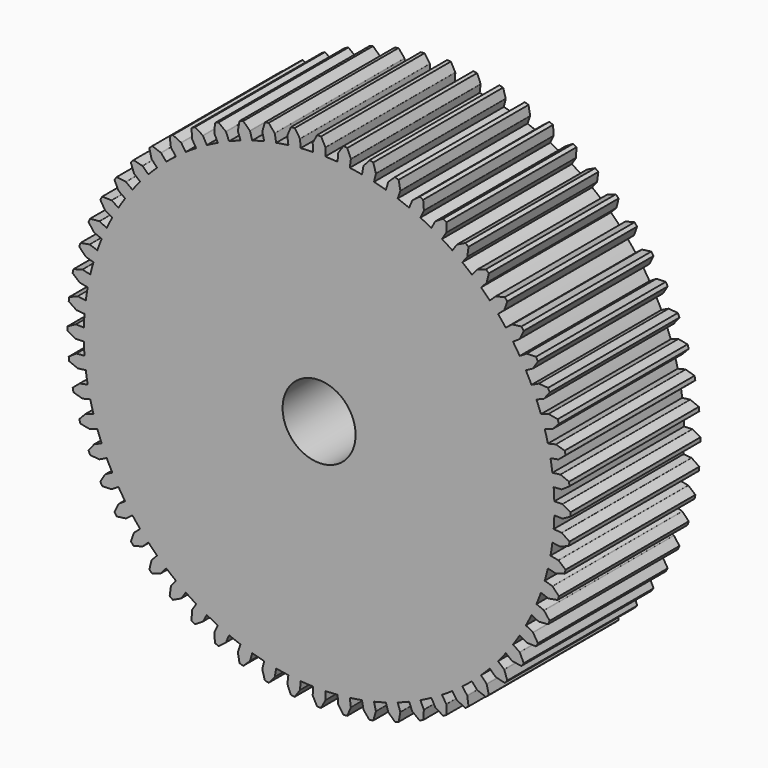
from build123d import *

# Parameters (mm, degrees)
F1_DEPTH = 10
F2_R     = 2.25
F3_DEPTH = 10.001


with BuildPart() as f1:
    # F0 (on Front) → F1 (new body)
    with BuildSketch(Plane.XZ):
        with BuildLine():
            ThreePointArc((14.495031, -0.379566), (14.498758, -0.189799), (14.5, 0))
            ThreePointArc((14.5, 0), (14.498758, 0.189799), (14.495031, 0.379566))
            ThreePointArc((14.495031, 0.379566), (14.480128, 0.758871), (14.455301, 1.137657))
            ThreePointArc((14.455301, 1.137657), (14.420567, 1.515663), (14.37595, 1.89263))
            ThreePointArc((14.37595, 1.89263), (14.321481, 2.2683), (14.257196, 2.642415))
            ThreePointArc((14.257196, 2.642415), (14.18314, 3.01472), (14.099364, 3.384958))
            ThreePointArc((14.099364, 3.384958), (14.005924, 3.752876), (13.902886, 4.118222))
            ThreePointArc((13.902886, 4.118222), (13.790319, 4.480746), (13.668302, 4.840199))
            ThreePointArc((13.668302, 4.840199), (13.536916, 5.196335), (13.396253, 5.54891))
            ThreePointArc((13.396253, 5.54891), (13.246409, 5.897681), (13.087487, 6.242411))
            ThreePointArc((13.087487, 6.242411), (12.919595, 6.582862), (12.742848, 6.918802))
            ThreePointArc((12.742848, 6.918802), (12.557368, 7.25), (12.363282, 7.576229))
            ThreePointArc((12.363282, 7.576229), (12.160723, 7.897266), (11.94983, 8.21289))
            ThreePointArc((11.94983, 8.21289), (11.730746, 8.522886), (11.503623, 8.827041))
            ThreePointArc((11.503623, 8.827041), (11.268616, 9.125146), (11.025887, 9.416997))
            ThreePointArc((11.025887, 9.416997), (10.7756, 9.702394), (10.517928, 9.981141))
            ThreePointArc((10.517928, 9.981141), (10.253048, 10.253048), (9.981141, 10.517928))
            ThreePointArc((9.981141, 10.517928), (9.702394, 10.7756), (9.416997, 11.025887))
            ThreePointArc((9.416997, 11.025887), (9.125146, 11.268616), (8.827041, 11.503623))
            ThreePointArc((8.827041, 11.503623), (8.522886, 11.730746), (8.21289, 11.94983))
            ThreePointArc((8.21289, 11.94983), (7.897266, 12.160723), (7.576229, 12.363282))
            ThreePointArc((7.576229, 12.363282), (7.25, 12.557368), (6.918802, 12.742848))
            ThreePointArc((6.918802, 12.742848), (6.582862, 12.919595), (6.242411, 13.087487))
            ThreePointArc((6.242411, 13.087487), (5.897681, 13.246409), (5.54891, 13.396253))
            ThreePointArc((5.54891, 13.396253), (5.196335, 13.536916), (4.840199, 13.668302))
            ThreePointArc((4.840199, 13.668302), (4.480746, 13.790319), (4.118222, 13.902886))
            ThreePointArc((4.118222, 13.902886), (3.752876, 14.005924), (3.384958, 14.099364))
            ThreePointArc((3.384958, 14.099364), (3.01472, 14.18314), (2.642415, 14.257196))
            ThreePointArc((2.642415, 14.257196), (2.2683, 14.321481), (1.89263, 14.37595))
            ThreePointArc((1.89263, 14.37595), (1.515663, 14.420567), (1.137657, 14.455301))
            ThreePointArc((1.137657, 14.455301), (0.758871, 14.480128), (0.379566, 14.495031))
            ThreePointArc((0.379566, 14.495031), (0, 14.5), (-0.379566, 14.495031))
            ThreePointArc((-0.379566, 14.495031), (-0.758871, 14.480128), (-1.137657, 14.455301))
            ThreePointArc((-1.137657, 14.455301), (-1.515663, 14.420567), (-1.89263, 14.37595))
            ThreePointArc((-1.89263, 14.37595), (-2.2683, 14.321481), (-2.642415, 14.257196))
            ThreePointArc((-2.642415, 14.257196), (-3.01472, 14.18314), (-3.384958, 14.099364))
            ThreePointArc((-3.384958, 14.099364), (-3.752876, 14.005924), (-4.118222, 13.902886))
            ThreePointArc((-4.118222, 13.902886), (-4.480746, 13.790319), (-4.840199, 13.668302))
            ThreePointArc((-4.840199, 13.668302), (-5.196335, 13.536916), (-5.54891, 13.396253))
            ThreePointArc((-5.54891, 13.396253), (-5.897681, 13.246409), (-6.242411, 13.087487))
            ThreePointArc((-6.242411, 13.087487), (-6.582862, 12.919595), (-6.918802, 12.742848))
            ThreePointArc((-6.918802, 12.742848), (-7.25, 12.557368), (-7.576229, 12.363282))
            ThreePointArc((-7.576229, 12.363282), (-7.897266, 12.160723), (-8.21289, 11.94983))
            ThreePointArc((-8.21289, 11.94983), (-8.522886, 11.730746), (-8.827041, 11.503623))
            ThreePointArc((-8.827041, 11.503623), (-9.125146, 11.268616), (-9.416997, 11.025887))
            ThreePointArc((-9.416997, 11.025887), (-9.702394, 10.7756), (-9.981141, 10.517928))
            ThreePointArc((-9.981141, 10.517928), (-10.253048, 10.253048), (-10.517928, 9.981141))
            ThreePointArc((-10.517928, 9.981141), (-10.7756, 9.702394), (-11.025887, 9.416997))
            ThreePointArc((-11.025887, 9.416997), (-11.268616, 9.125146), (-11.503623, 8.827041))
            ThreePointArc((-11.503623, 8.827041), (-11.730746, 8.522886), (-11.94983, 8.21289))
            ThreePointArc((-11.94983, 8.21289), (-12.160723, 7.897266), (-12.363282, 7.576229))
            ThreePointArc((-12.363282, 7.576229), (-12.557368, 7.25), (-12.742848, 6.918802))
            ThreePointArc((-12.742848, 6.918802), (-12.919595, 6.582862), (-13.087487, 6.242411))
            ThreePointArc((-13.087487, 6.242411), (-13.246409, 5.897681), (-13.396253, 5.54891))
            ThreePointArc((-13.396253, 5.54891), (-13.536916, 5.196335), (-13.668302, 4.840199))
            ThreePointArc((-13.668302, 4.840199), (-13.790319, 4.480746), (-13.902886, 4.118222))
            ThreePointArc((-13.902886, 4.118222), (-14.005924, 3.752876), (-14.099364, 3.384958))
            ThreePointArc((-14.099364, 3.384958), (-14.18314, 3.01472), (-14.257196, 2.642415))
            ThreePointArc((-14.257196, 2.642415), (-14.321481, 2.2683), (-14.37595, 1.89263))
            ThreePointArc((-14.37595, 1.89263), (-14.420567, 1.515663), (-14.455301, 1.137657))
            ThreePointArc((-14.455301, 1.137657), (-14.480128, 0.758871), (-14.495031, 0.379566))
            ThreePointArc((-14.495031, 0.379566), (-14.5, 0), (-14.495031, -0.379566))
            ThreePointArc((-14.495031, -0.379566), (-14.480128, -0.758871), (-14.455301, -1.137657))
            ThreePointArc((-14.455301, -1.137657), (-14.420567, -1.515663), (-14.37595, -1.89263))
            ThreePointArc((-14.37595, -1.89263), (-14.321481, -2.2683), (-14.257196, -2.642415))
            ThreePointArc((-14.257196, -2.642415), (-14.18314, -3.01472), (-14.099364, -3.384958))
            ThreePointArc((-14.099364, -3.384958), (-14.005924, -3.752876), (-13.902886, -4.118222))
            ThreePointArc((-13.902886, -4.118222), (-13.790319, -4.480746), (-13.668302, -4.840199))
            ThreePointArc((-13.668302, -4.840199), (-13.536916, -5.196335), (-13.396253, -5.54891))
            ThreePointArc((-13.396253, -5.54891), (-13.246409, -5.897681), (-13.087487, -6.242411))
            ThreePointArc((-13.087487, -6.242411), (-12.919595, -6.582862), (-12.742848, -6.918802))
            ThreePointArc((-12.742848, -6.918802), (-12.557368, -7.25), (-12.363282, -7.576229))
            ThreePointArc((-12.363282, -7.576229), (-12.160723, -7.897266), (-11.94983, -8.21289))
            ThreePointArc((-11.94983, -8.21289), (-11.730746, -8.522886), (-11.503623, -8.827041))
            ThreePointArc((-11.503623, -8.827041), (-11.268616, -9.125146), (-11.025887, -9.416997))
            ThreePointArc((-11.025887, -9.416997), (-10.7756, -9.702394), (-10.517928, -9.981141))
            ThreePointArc((-10.517928, -9.981141), (-10.253048, -10.253048), (-9.981141, -10.517928))
            ThreePointArc((-9.981141, -10.517928), (-9.702394, -10.7756), (-9.416997, -11.025887))
            ThreePointArc((-9.416997, -11.025887), (-9.125146, -11.268616), (-8.827041, -11.503623))
            ThreePointArc((-8.827041, -11.503623), (-8.522886, -11.730746), (-8.21289, -11.94983))
            ThreePointArc((-8.21289, -11.94983), (-7.897266, -12.160723), (-7.576229, -12.363282))
            ThreePointArc((-7.576229, -12.363282), (-7.25, -12.557368), (-6.918802, -12.742848))
            ThreePointArc((-6.918802, -12.742848), (-6.582862, -12.919595), (-6.242411, -13.087487))
            ThreePointArc((-6.242411, -13.087487), (-5.897681, -13.246409), (-5.54891, -13.396253))
            ThreePointArc((-5.54891, -13.396253), (-5.196335, -13.536916), (-4.840199, -13.668302))
            ThreePointArc((-4.840199, -13.668302), (-4.480746, -13.790319), (-4.118222, -13.902886))
            ThreePointArc((-4.118222, -13.902886), (-3.752876, -14.005924), (-3.384958, -14.099364))
            ThreePointArc((-3.384958, -14.099364), (-3.01472, -14.18314), (-2.642415, -14.257196))
            ThreePointArc((-2.642415, -14.257196), (-2.2683, -14.321481), (-1.89263, -14.37595))
            ThreePointArc((-1.89263, -14.37595), (-1.515663, -14.420567), (-1.137657, -14.455301))
            ThreePointArc((-1.137657, -14.455301), (-0.758871, -14.480128), (-0.379566, -14.495031))
            ThreePointArc((-0.379566, -14.495031), (0, -14.5), (0.379566, -14.495031))
            ThreePointArc((0.379566, -14.495031), (0.758871, -14.480128), (1.137657, -14.455301))
            ThreePointArc((1.137657, -14.455301), (1.515663, -14.420567), (1.89263, -14.37595))
            ThreePointArc((1.89263, -14.37595), (2.2683, -14.321481), (2.642415, -14.257196))
            ThreePointArc((2.642415, -14.257196), (3.01472, -14.18314), (3.384958, -14.099364))
            ThreePointArc((3.384958, -14.099364), (3.752876, -14.005924), (4.118222, -13.902886))
            ThreePointArc((4.118222, -13.902886), (4.480746, -13.790319), (4.840199, -13.668302))
            ThreePointArc((4.840199, -13.668302), (5.196335, -13.536916), (5.54891, -13.396253))
            ThreePointArc((5.54891, -13.396253), (5.897681, -13.246409), (6.242411, -13.087487))
            ThreePointArc((6.242411, -13.087487), (6.582862, -12.919595), (6.918802, -12.742848))
            ThreePointArc((6.918802, -12.742848), (7.25, -12.557368), (7.576229, -12.363282))
            ThreePointArc((7.576229, -12.363282), (7.897266, -12.160723), (8.21289, -11.94983))
            ThreePointArc((8.21289, -11.94983), (8.522886, -11.730746), (8.827041, -11.503623))
            ThreePointArc((8.827041, -11.503623), (9.125146, -11.268616), (9.416997, -11.025887))
            ThreePointArc((9.416997, -11.025887), (9.702394, -10.7756), (9.981141, -10.517928))
            ThreePointArc((9.981141, -10.517928), (10.253048, -10.253048), (10.517928, -9.981141))
            ThreePointArc((10.517928, -9.981141), (10.7756, -9.702394), (11.025887, -9.416997))
            ThreePointArc((11.025887, -9.416997), (11.268616, -9.125146), (11.503623, -8.827041))
            ThreePointArc((11.503623, -8.827041), (11.730746, -8.522886), (11.94983, -8.21289))
            ThreePointArc((11.94983, -8.21289), (12.160723, -7.897266), (12.363282, -7.576229))
            ThreePointArc((12.363282, -7.576229), (12.557368, -7.25), (12.742848, -6.918802))
            ThreePointArc((12.742848, -6.918802), (12.919595, -6.582862), (13.087487, -6.242411))
            ThreePointArc((13.087487, -6.242411), (13.246409, -5.897681), (13.396253, -5.54891))
            ThreePointArc((13.396253, -5.54891), (13.536916, -5.196335), (13.668302, -4.840199))
            ThreePointArc((13.668302, -4.840199), (13.790319, -4.480746), (13.902886, -4.118222))
            ThreePointArc((13.902886, -4.118222), (14.005924, -3.752876), (14.099364, -3.384958))
            ThreePointArc((14.099364, -3.384958), (14.18314, -3.01472), (14.257196, -2.642415))
            ThreePointArc((14.257196, -2.642415), (14.321481, -2.2683), (14.37595, -1.89263))
            ThreePointArc((14.37595, -1.89263), (14.420567, -1.515663), (14.455301, -1.137657))
            ThreePointArc((14.455301, -1.137657), (14.480128, -0.758871), (14.495031, -0.379566))
        make_face()
        with BuildLine():
            ThreePointArc((14.495031, 0.379566), (14.498758, 0.189799), (14.5, 0))
            ThreePointArc((14.5, 0), (14.498758, -0.189799), (14.495031, -0.379566))
            Line((14.495031, -0.379566), (14.981523, -0.392305))
            ThreePointArc((14.981523, -0.392305), (14.994453, -0.390953), (15.006598, -0.386313))
            Line((15.006598, -0.386313), (15.499535, -0.12))
            ThreePointArc((15.499535, -0.12), (15.5, 0), (15.499535, 0.12))
            Line((15.499535, 0.12), (15.006598, 0.386313))
            ThreePointArc((15.006598, 0.386313), (14.994453, 0.390953), (14.981523, 0.392305))
            Line((14.981523, 0.392305), (14.495031, 0.379566))
        make_face()
        with BuildLine():
            ThreePointArc((14.37595, 1.89263), (14.420567, 1.515663), (14.455301, 1.137657))
            Line((14.455301, 1.137657), (14.94046, 1.17584))
            ThreePointArc((14.94046, 1.17584), (14.953178, 1.178536), (14.964771, 1.18442))
            Line((14.964771, 1.18442), (15.427171, 1.5008))
            ThreePointArc((15.427171, 1.5008), (15.415089, 1.620191), (15.402084, 1.739485))
            Line((15.402084, 1.739485), (14.88401, 1.952813))
            ThreePointArc((14.88401, 1.952813), (14.871446, 1.956158), (14.858446, 1.956151))
            Line((14.858446, 1.956151), (14.37595, 1.89263))
        make_face()
        with BuildLine():
            Line((14.94046, -1.17584), (14.455301, -1.137657))
            ThreePointArc((14.455301, -1.137657), (14.420567, -1.515663), (14.37595, -1.89263))
            Line((14.37595, -1.89263), (14.858446, -1.956151))
            ThreePointArc((14.858446, -1.956151), (14.871446, -1.956158), (14.88401, -1.952813))
            Line((14.88401, -1.952813), (15.402084, -1.739485))
            ThreePointArc((15.402084, -1.739485), (15.415089, -1.620191), (15.427171, -1.5008))
            Line((15.427171, -1.5008), (14.964771, -1.18442))
            ThreePointArc((14.964771, -1.18442), (14.953178, -1.178536), (14.94046, -1.17584))
        make_face()
        with BuildLine():
            ThreePointArc((14.099364, 3.384958), (14.18314, 3.01472), (14.257196, 2.642415))
            Line((14.257196, 2.642415), (14.735705, 2.731102))
            ThreePointArc((14.735705, 2.731102), (14.748072, 2.735113), (14.758987, 2.742176))
            Line((14.758987, 2.742176), (15.185783, 3.105157))
            ThreePointArc((15.185783, 3.105157), (15.161288, 3.222631), (15.135884, 3.339912))
            Line((15.135884, 3.339912), (14.598349, 3.497918))
            ThreePointArc((14.598349, 3.497918), (14.585505, 3.499932), (14.572576, 3.498566))
            Line((14.572576, 3.498566), (14.099364, 3.384958))
        make_face()
        with BuildLine():
            Line((14.735705, -2.731102), (14.257196, -2.642415))
            ThreePointArc((14.257196, -2.642415), (14.18314, -3.01472), (14.099364, -3.384958))
            Line((14.099364, -3.384958), (14.572576, -3.498566))
            ThreePointArc((14.572576, -3.498566), (14.585505, -3.499932), (14.598349, -3.497918))
            Line((14.598349, -3.497918), (15.135884, -3.339912))
            ThreePointArc((15.135884, -3.339912), (15.161288, -3.222631), (15.185783, -3.105157))
            Line((15.185783, -3.105157), (14.758987, -2.742176))
            ThreePointArc((14.758987, -2.742176), (14.748072, -2.735113), (14.735705, -2.731102))
        make_face()
        with BuildLine():
            ThreePointArc((13.668302, 4.840199), (13.790319, 4.480746), (13.902886, 4.118222))
            Line((13.902886, 4.118222), (14.369504, 4.256441))
            ThreePointArc((14.369504, 4.256441), (14.381384, 4.261723), (14.3915, 4.269889))
            Line((14.3915, 4.269889), (14.778016, 4.675493))
            ThreePointArc((14.778016, 4.675493), (14.741376, 4.789763), (14.703852, 4.903747))
            Line((14.703852, 4.903747), (14.152746, 5.004699))
            ThreePointArc((14.152746, 5.004699), (14.139761, 5.005359), (14.127046, 5.002649))
            Line((14.127046, 5.002649), (13.668302, 4.840199))
        make_face()
        with BuildLine():
            Line((14.369504, -4.256441), (13.902886, -4.118222))
            ThreePointArc((13.902886, -4.118222), (13.790319, -4.480746), (13.668302, -4.840199))
            Line((13.668302, -4.840199), (14.127046, -5.002649))
            ThreePointArc((14.127046, -5.002649), (14.139761, -5.005359), (14.152746, -5.004699))
            Line((14.152746, -5.004699), (14.703852, -4.903747))
            ThreePointArc((14.703852, -4.903747), (14.741376, -4.789763), (14.778016, -4.675493))
            Line((14.778016, -4.675493), (14.3915, -4.269889))
            ThreePointArc((14.3915, -4.269889), (14.381384, -4.261723), (14.369504, -4.256441))
        make_face()
        with BuildLine():
            ThreePointArc((13.087487, 6.242411), (13.246409, 5.897681), (13.396253, 5.54891))
            Line((13.396253, 5.54891), (13.845867, 5.735146))
            ThreePointArc((13.845867, 5.735146), (13.857129, 5.74164), (13.866337, 5.750819))
            Line((13.866337, 5.750819), (14.208339, 6.194604))
            ThreePointArc((14.208339, 6.194604), (14.159955, 6.304418), (14.110722, 6.413854))
            Line((14.110722, 6.413854), (13.552082, 6.456647))
            ThreePointArc((13.552082, 6.456647), (13.5391, 6.455947), (13.526737, 6.451923))
            Line((13.526737, 6.451923), (13.087487, 6.242411))
        make_face()
        with BuildLine():
            Line((13.845867, -5.735146), (13.396253, -5.54891))
            ThreePointArc((13.396253, -5.54891), (13.246409, -5.897681), (13.087487, -6.242411))
            Line((13.087487, -6.242411), (13.526737, -6.451923))
            ThreePointArc((13.526737, -6.451923), (13.5391, -6.455947), (13.552082, -6.456647))
            Line((13.552082, -6.456647), (14.110722, -6.413854))
            ThreePointArc((14.110722, -6.413854), (14.159955, -6.304418), (14.208339, -6.194604))
            Line((14.208339, -6.194604), (13.866337, -5.750819))
            ThreePointArc((13.866337, -5.750819), (13.857129, -5.74164), (13.845867, -5.735146))
        make_face()
        with BuildLine():
            ThreePointArc((12.363282, 7.576229), (12.557368, 7.25), (12.742848, 6.918802))
            Line((12.742848, 6.918802), (13.170532, 7.151015))
            ThreePointArc((13.170532, 7.151015), (13.181054, 7.158652), (13.189251, 7.168742))
            Line((13.189251, 7.168742), (13.482991, 7.645845))
            ThreePointArc((13.482991, 7.645845), (13.423394, 7.75), (13.362991, 7.853691))
            Line((13.362991, 7.853691), (12.802939, 7.837856))
            ThreePointArc((12.802939, 7.837856), (12.790101, 7.835802), (12.778227, 7.830508))
            Line((12.778227, 7.830508), (12.363282, 7.576229))
        make_face()
        with BuildLine():
            Line((13.170532, -7.151015), (12.742848, -6.918802))
            ThreePointArc((12.742848, -6.918802), (12.557368, -7.25), (12.363282, -7.576229))
            Line((12.363282, -7.576229), (12.778227, -7.830508))
            ThreePointArc((12.778227, -7.830508), (12.790101, -7.835802), (12.802939, -7.837856))
            Line((12.802939, -7.837856), (13.362991, -7.853691))
            ThreePointArc((13.362991, -7.853691), (13.423394, -7.75), (13.482991, -7.645845))
            Line((13.482991, -7.645845), (13.189251, -7.168742))
            ThreePointArc((13.189251, -7.168742), (13.181054, -7.158652), (13.170532, -7.151015))
        make_face()
        with BuildLine():
            ThreePointArc((11.503623, 8.827041), (11.730746, 8.522886), (11.94983, 8.21289))
            Line((11.94983, 8.21289), (12.350898, 8.488537))
            ThreePointArc((12.350898, 8.488537), (12.360564, 8.497231), (12.367662, 8.508123))
            Line((12.367662, 8.508123), (12.609922, 9.013316))
            ThreePointArc((12.609922, 9.013316), (12.539763, 9.110671), (12.468853, 9.20748))
            Line((12.468853, 9.20748), (11.913524, 9.13319))
            ThreePointArc((11.913524, 9.13319), (11.900971, 9.129806), (11.889716, 9.1233))
            Line((11.889716, 9.1233), (11.503623, 8.827041))
        make_face()
        with BuildLine():
            Line((12.350898, -8.488537), (11.94983, -8.21289))
            ThreePointArc((11.94983, -8.21289), (11.730746, -8.522886), (11.503623, -8.827041))
            Line((11.503623, -8.827041), (11.889716, -9.1233))
            ThreePointArc((11.889716, -9.1233), (11.900971, -9.129806), (11.913524, -9.13319))
            Line((11.913524, -9.13319), (12.468853, -9.20748))
            ThreePointArc((12.468853, -9.20748), (12.539763, -9.110671), (12.609922, -9.013316))
            Line((12.609922, -9.013316), (12.367662, -8.508123))
            ThreePointArc((12.367662, -8.508123), (12.360564, -8.497231), (12.350898, -8.488537))
        make_face()
        with BuildLine():
            ThreePointArc((10.517928, 9.981141), (10.7756, 9.702394), (11.025887, 9.416997))
            Line((11.025887, 9.416997), (11.395944, 9.733056))
            ThreePointArc((11.395944, 9.733056), (11.404649, 9.742713), (11.410569, 9.754288))
            Line((11.410569, 9.754288), (11.598695, 10.282036))
            ThreePointArc((11.598695, 10.282036), (11.518745, 10.371524), (11.438104, 10.460391))
            Line((11.438104, 10.460391), (10.893582, 10.32846))
            ThreePointArc((10.893582, 10.32846), (10.881452, 10.323782), (10.870938, 10.316135))
            Line((10.870938, 10.316135), (10.517928, 9.981141))
        make_face()
        with BuildLine():
            Line((11.395944, -9.733056), (11.025887, -9.416997))
            ThreePointArc((11.025887, -9.416997), (10.7756, -9.702394), (10.517928, -9.981141))
            Line((10.517928, -9.981141), (10.870938, -10.316135))
            ThreePointArc((10.870938, -10.316135), (10.881452, -10.323782), (10.893582, -10.32846))
            Line((10.893582, -10.32846), (11.438104, -10.460391))
            ThreePointArc((11.438104, -10.460391), (11.518745, -10.371524), (11.598695, -10.282036))
            Line((11.598695, -10.282036), (11.410569, -9.754288))
            ThreePointArc((11.410569, -9.754288), (11.404649, -9.742713), (11.395944, -9.733056))
        make_face()
        with BuildLine():
            ThreePointArc((9.416997, 11.025887), (9.702394, 10.7756), (9.981141, 10.517928))
            Line((9.981141, 10.517928), (10.316135, 10.870938))
            ThreePointArc((10.316135, 10.870938), (10.323782, 10.881452), (10.32846, 10.893582))
            Line((10.32846, 10.893582), (10.460391, 11.438104))
            ThreePointArc((10.460391, 11.438104), (10.371524, 11.518745), (10.282036, 11.598695))
            Line((10.282036, 11.598695), (9.754288, 11.410569))
            ThreePointArc((9.754288, 11.410569), (9.742713, 11.404649), (9.733056, 11.395944))
            Line((9.733056, 11.395944), (9.416997, 11.025887))
        make_face()
        with BuildLine():
            Line((10.316135, -10.870938), (9.981141, -10.517928))
            ThreePointArc((9.981141, -10.517928), (9.702394, -10.7756), (9.416997, -11.025887))
            Line((9.416997, -11.025887), (9.733056, -11.395944))
            ThreePointArc((9.733056, -11.395944), (9.742713, -11.404649), (9.754288, -11.410569))
            Line((9.754288, -11.410569), (10.282036, -11.598695))
            ThreePointArc((10.282036, -11.598695), (10.371524, -11.518745), (10.460391, -11.438104))
            Line((10.460391, -11.438104), (10.32846, -10.893582))
            ThreePointArc((10.32846, -10.893582), (10.323782, -10.881452), (10.316135, -10.870938))
        make_face()
        with BuildLine():
            ThreePointArc((8.21289, 11.94983), (8.522886, 11.730746), (8.827041, 11.503623))
            Line((8.827041, 11.503623), (9.1233, 11.889716))
            ThreePointArc((9.1233, 11.889716), (9.129806, 11.900971), (9.13319, 11.913524))
            Line((9.13319, 11.913524), (9.20748, 12.468853))
            ThreePointArc((9.20748, 12.468853), (9.110671, 12.539763), (9.013316, 12.609922))
            Line((9.013316, 12.609922), (8.508123, 12.367662))
            ThreePointArc((8.508123, 12.367662), (8.497231, 12.360564), (8.488537, 12.350898))
            Line((8.488537, 12.350898), (8.21289, 11.94983))
        make_face()
        with BuildLine():
            Line((9.1233, -11.889716), (8.827041, -11.503623))
            ThreePointArc((8.827041, -11.503623), (8.522886, -11.730746), (8.21289, -11.94983))
            Line((8.21289, -11.94983), (8.488537, -12.350898))
            ThreePointArc((8.488537, -12.350898), (8.497231, -12.360564), (8.508123, -12.367662))
            Line((8.508123, -12.367662), (9.013316, -12.609922))
            ThreePointArc((9.013316, -12.609922), (9.110671, -12.539763), (9.20748, -12.468853))
            Line((9.20748, -12.468853), (9.13319, -11.913524))
            ThreePointArc((9.13319, -11.913524), (9.129806, -11.900971), (9.1233, -11.889716))
        make_face()
        with BuildLine():
            ThreePointArc((6.918802, 12.742848), (7.25, 12.557368), (7.576229, 12.363282))
            Line((7.576229, 12.363282), (7.830508, 12.778227))
            ThreePointArc((7.830508, 12.778227), (7.835802, 12.790101), (7.837856, 12.802939))
            Line((7.837856, 12.802939), (7.853691, 13.362991))
            ThreePointArc((7.853691, 13.362991), (7.75, 13.423394), (7.645845, 13.482991))
            Line((7.645845, 13.482991), (7.168742, 13.189251))
            ThreePointArc((7.168742, 13.189251), (7.158652, 13.181054), (7.151015, 13.170532))
            Line((7.151015, 13.170532), (6.918802, 12.742848))
        make_face()
        with BuildLine():
            Line((7.830508, -12.778227), (7.576229, -12.363282))
            ThreePointArc((7.576229, -12.363282), (7.25, -12.557368), (6.918802, -12.742848))
            Line((6.918802, -12.742848), (7.151015, -13.170532))
            ThreePointArc((7.151015, -13.170532), (7.158652, -13.181054), (7.168742, -13.189251))
            Line((7.168742, -13.189251), (7.645845, -13.482991))
            ThreePointArc((7.645845, -13.482991), (7.75, -13.423394), (7.853691, -13.362991))
            Line((7.853691, -13.362991), (7.837856, -12.802939))
            ThreePointArc((7.837856, -12.802939), (7.835802, -12.790101), (7.830508, -12.778227))
        make_face()
        with BuildLine():
            ThreePointArc((5.54891, 13.396253), (5.897681, 13.246409), (6.242411, 13.087487))
            Line((6.242411, 13.087487), (6.451923, 13.526737))
            ThreePointArc((6.451923, 13.526737), (6.455947, 13.5391), (6.456647, 13.552082))
            Line((6.456647, 13.552082), (6.413854, 14.110722))
            ThreePointArc((6.413854, 14.110722), (6.304418, 14.159955), (6.194604, 14.208339))
            Line((6.194604, 14.208339), (5.750819, 13.866337))
            ThreePointArc((5.750819, 13.866337), (5.74164, 13.857129), (5.735146, 13.845867))
            Line((5.735146, 13.845867), (5.54891, 13.396253))
        make_face()
        with BuildLine():
            Line((6.451923, -13.526737), (6.242411, -13.087487))
            ThreePointArc((6.242411, -13.087487), (5.897681, -13.246409), (5.54891, -13.396253))
            Line((5.54891, -13.396253), (5.735146, -13.845867))
            ThreePointArc((5.735146, -13.845867), (5.74164, -13.857129), (5.750819, -13.866337))
            Line((5.750819, -13.866337), (6.194604, -14.208339))
            ThreePointArc((6.194604, -14.208339), (6.304418, -14.159955), (6.413854, -14.110722))
            Line((6.413854, -14.110722), (6.456647, -13.552082))
            ThreePointArc((6.456647, -13.552082), (6.455947, -13.5391), (6.451923, -13.526737))
        make_face()
        with BuildLine():
            ThreePointArc((4.118222, 13.902886), (4.480746, 13.790319), (4.840199, 13.668302))
            Line((4.840199, 13.668302), (5.002649, 14.127046))
            ThreePointArc((5.002649, 14.127046), (5.005359, 14.139761), (5.004699, 14.152746))
            Line((5.004699, 14.152746), (4.903747, 14.703852))
            ThreePointArc((4.903747, 14.703852), (4.789763, 14.741376), (4.675493, 14.778016))
            Line((4.675493, 14.778016), (4.269889, 14.3915))
            ThreePointArc((4.269889, 14.3915), (4.261723, 14.381384), (4.256441, 14.369504))
            Line((4.256441, 14.369504), (4.118222, 13.902886))
        make_face()
        with BuildLine():
            Line((5.002649, -14.127046), (4.840199, -13.668302))
            ThreePointArc((4.840199, -13.668302), (4.480746, -13.790319), (4.118222, -13.902886))
            Line((4.118222, -13.902886), (4.256441, -14.369504))
            ThreePointArc((4.256441, -14.369504), (4.261723, -14.381384), (4.269889, -14.3915))
            Line((4.269889, -14.3915), (4.675493, -14.778016))
            ThreePointArc((4.675493, -14.778016), (4.789763, -14.741376), (4.903747, -14.703852))
            Line((4.903747, -14.703852), (5.004699, -14.152746))
            ThreePointArc((5.004699, -14.152746), (5.005359, -14.139761), (5.002649, -14.127046))
        make_face()
        with BuildLine():
            ThreePointArc((2.642415, 14.257196), (3.01472, 14.18314), (3.384958, 14.099364))
            Line((3.384958, 14.099364), (3.498566, 14.572576))
            ThreePointArc((3.498566, 14.572576), (3.499932, 14.585505), (3.497918, 14.598349))
            Line((3.497918, 14.598349), (3.339912, 15.135884))
            ThreePointArc((3.339912, 15.135884), (3.222631, 15.161288), (3.105157, 15.185783))
            Line((3.105157, 15.185783), (2.742176, 14.758987))
            ThreePointArc((2.742176, 14.758987), (2.735113, 14.748072), (2.731102, 14.735705))
            Line((2.731102, 14.735705), (2.642415, 14.257196))
        make_face()
        with BuildLine():
            Line((3.498566, -14.572576), (3.384958, -14.099364))
            ThreePointArc((3.384958, -14.099364), (3.01472, -14.18314), (2.642415, -14.257196))
            Line((2.642415, -14.257196), (2.731102, -14.735705))
            ThreePointArc((2.731102, -14.735705), (2.735113, -14.748072), (2.742176, -14.758987))
            Line((2.742176, -14.758987), (3.105157, -15.185783))
            ThreePointArc((3.105157, -15.185783), (3.222631, -15.161288), (3.339912, -15.135884))
            Line((3.339912, -15.135884), (3.497918, -14.598349))
            ThreePointArc((3.497918, -14.598349), (3.499932, -14.585505), (3.498566, -14.572576))
        make_face()
        with BuildLine():
            ThreePointArc((1.137657, 14.455301), (1.515663, 14.420567), (1.89263, 14.37595))
            Line((1.89263, 14.37595), (1.956151, 14.858446))
            ThreePointArc((1.956151, 14.858446), (1.956158, 14.871446), (1.952813, 14.88401))
            Line((1.952813, 14.88401), (1.739485, 15.402084))
            ThreePointArc((1.739485, 15.402084), (1.620191, 15.415089), (1.5008, 15.427171))
            Line((1.5008, 15.427171), (1.18442, 14.964771))
            ThreePointArc((1.18442, 14.964771), (1.178536, 14.953178), (1.17584, 14.94046))
            Line((1.17584, 14.94046), (1.137657, 14.455301))
        make_face()
        with BuildLine():
            Line((1.956151, -14.858446), (1.89263, -14.37595))
            ThreePointArc((1.89263, -14.37595), (1.515663, -14.420567), (1.137657, -14.455301))
            Line((1.137657, -14.455301), (1.17584, -14.94046))
            ThreePointArc((1.17584, -14.94046), (1.178536, -14.953178), (1.18442, -14.964771))
            Line((1.18442, -14.964771), (1.5008, -15.427171))
            ThreePointArc((1.5008, -15.427171), (1.620191, -15.415089), (1.739485, -15.402084))
            Line((1.739485, -15.402084), (1.952813, -14.88401))
            ThreePointArc((1.952813, -14.88401), (1.956158, -14.871446), (1.956151, -14.858446))
        make_face()
        with BuildLine():
            ThreePointArc((-0.379566, 14.495031), (0, 14.5), (0.379566, 14.495031))
            Line((0.379566, 14.495031), (0.392305, 14.981523))
            ThreePointArc((0.392305, 14.981523), (0.390953, 14.994453), (0.386313, 15.006598))
            Line((0.386313, 15.006598), (0.12, 15.499535))
            ThreePointArc((0.12, 15.499535), (0, 15.5), (-0.12, 15.499535))
            Line((-0.12, 15.499535), (-0.386313, 15.006598))
            ThreePointArc((-0.386313, 15.006598), (-0.390953, 14.994453), (-0.392305, 14.981523))
            Line((-0.392305, 14.981523), (-0.379566, 14.495031))
        make_face()
        with BuildLine():
            Line((0.392305, -14.981523), (0.379566, -14.495031))
            ThreePointArc((0.379566, -14.495031), (0, -14.5), (-0.379566, -14.495031))
            Line((-0.379566, -14.495031), (-0.392305, -14.981523))
            ThreePointArc((-0.392305, -14.981523), (-0.390953, -14.994453), (-0.386313, -15.006598))
            Line((-0.386313, -15.006598), (-0.12, -15.499535))
            ThreePointArc((-0.12, -15.499535), (0, -15.5), (0.12, -15.499535))
            Line((0.12, -15.499535), (0.386313, -15.006598))
            ThreePointArc((0.386313, -15.006598), (0.390953, -14.994453), (0.392305, -14.981523))
        make_face()
        with BuildLine():
            ThreePointArc((-1.89263, 14.37595), (-1.515663, 14.420567), (-1.137657, 14.455301))
            Line((-1.137657, 14.455301), (-1.17584, 14.94046))
            ThreePointArc((-1.17584, 14.94046), (-1.178536, 14.953178), (-1.18442, 14.964771))
            Line((-1.18442, 14.964771), (-1.5008, 15.427171))
            ThreePointArc((-1.5008, 15.427171), (-1.620191, 15.415089), (-1.739485, 15.402084))
            Line((-1.739485, 15.402084), (-1.952813, 14.88401))
            ThreePointArc((-1.952813, 14.88401), (-1.956158, 14.871446), (-1.956151, 14.858446))
            Line((-1.956151, 14.858446), (-1.89263, 14.37595))
        make_face()
        with BuildLine():
            Line((-1.17584, -14.94046), (-1.137657, -14.455301))
            ThreePointArc((-1.137657, -14.455301), (-1.515663, -14.420567), (-1.89263, -14.37595))
            Line((-1.89263, -14.37595), (-1.956151, -14.858446))
            ThreePointArc((-1.956151, -14.858446), (-1.956158, -14.871446), (-1.952813, -14.88401))
            Line((-1.952813, -14.88401), (-1.739485, -15.402084))
            ThreePointArc((-1.739485, -15.402084), (-1.620191, -15.415089), (-1.5008, -15.427171))
            Line((-1.5008, -15.427171), (-1.18442, -14.964771))
            ThreePointArc((-1.18442, -14.964771), (-1.178536, -14.953178), (-1.17584, -14.94046))
        make_face()
        with BuildLine():
            ThreePointArc((-3.384958, 14.099364), (-3.01472, 14.18314), (-2.642415, 14.257196))
            Line((-2.642415, 14.257196), (-2.731102, 14.735705))
            ThreePointArc((-2.731102, 14.735705), (-2.735113, 14.748072), (-2.742176, 14.758987))
            Line((-2.742176, 14.758987), (-3.105157, 15.185783))
            ThreePointArc((-3.105157, 15.185783), (-3.222631, 15.161288), (-3.339912, 15.135884))
            Line((-3.339912, 15.135884), (-3.497918, 14.598349))
            ThreePointArc((-3.497918, 14.598349), (-3.499932, 14.585505), (-3.498566, 14.572576))
            Line((-3.498566, 14.572576), (-3.384958, 14.099364))
        make_face()
        with BuildLine():
            Line((-2.731102, -14.735705), (-2.642415, -14.257196))
            ThreePointArc((-2.642415, -14.257196), (-3.01472, -14.18314), (-3.384958, -14.099364))
            Line((-3.384958, -14.099364), (-3.498566, -14.572576))
            ThreePointArc((-3.498566, -14.572576), (-3.499932, -14.585505), (-3.497918, -14.598349))
            Line((-3.497918, -14.598349), (-3.339912, -15.135884))
            ThreePointArc((-3.339912, -15.135884), (-3.222631, -15.161288), (-3.105157, -15.185783))
            Line((-3.105157, -15.185783), (-2.742176, -14.758987))
            ThreePointArc((-2.742176, -14.758987), (-2.735113, -14.748072), (-2.731102, -14.735705))
        make_face()
        with BuildLine():
            ThreePointArc((-4.840199, 13.668302), (-4.480746, 13.790319), (-4.118222, 13.902886))
            Line((-4.118222, 13.902886), (-4.256441, 14.369504))
            ThreePointArc((-4.256441, 14.369504), (-4.261723, 14.381384), (-4.269889, 14.3915))
            Line((-4.269889, 14.3915), (-4.675493, 14.778016))
            ThreePointArc((-4.675493, 14.778016), (-4.789763, 14.741376), (-4.903747, 14.703852))
            Line((-4.903747, 14.703852), (-5.004699, 14.152746))
            ThreePointArc((-5.004699, 14.152746), (-5.005359, 14.139761), (-5.002649, 14.127046))
            Line((-5.002649, 14.127046), (-4.840199, 13.668302))
        make_face()
        with BuildLine():
            Line((-4.256441, -14.369504), (-4.118222, -13.902886))
            ThreePointArc((-4.118222, -13.902886), (-4.480746, -13.790319), (-4.840199, -13.668302))
            Line((-4.840199, -13.668302), (-5.002649, -14.127046))
            ThreePointArc((-5.002649, -14.127046), (-5.005359, -14.139761), (-5.004699, -14.152746))
            Line((-5.004699, -14.152746), (-4.903747, -14.703852))
            ThreePointArc((-4.903747, -14.703852), (-4.789763, -14.741376), (-4.675493, -14.778016))
            Line((-4.675493, -14.778016), (-4.269889, -14.3915))
            ThreePointArc((-4.269889, -14.3915), (-4.261723, -14.381384), (-4.256441, -14.369504))
        make_face()
        with BuildLine():
            ThreePointArc((-6.242411, 13.087487), (-5.897681, 13.246409), (-5.54891, 13.396253))
            Line((-5.54891, 13.396253), (-5.735146, 13.845867))
            ThreePointArc((-5.735146, 13.845867), (-5.74164, 13.857129), (-5.750819, 13.866337))
            Line((-5.750819, 13.866337), (-6.194604, 14.208339))
            ThreePointArc((-6.194604, 14.208339), (-6.304418, 14.159955), (-6.413854, 14.110722))
            Line((-6.413854, 14.110722), (-6.456647, 13.552082))
            ThreePointArc((-6.456647, 13.552082), (-6.455947, 13.5391), (-6.451923, 13.526737))
            Line((-6.451923, 13.526737), (-6.242411, 13.087487))
        make_face()
        with BuildLine():
            Line((-5.735146, -13.845867), (-5.54891, -13.396253))
            ThreePointArc((-5.54891, -13.396253), (-5.897681, -13.246409), (-6.242411, -13.087487))
            Line((-6.242411, -13.087487), (-6.451923, -13.526737))
            ThreePointArc((-6.451923, -13.526737), (-6.455947, -13.5391), (-6.456647, -13.552082))
            Line((-6.456647, -13.552082), (-6.413854, -14.110722))
            ThreePointArc((-6.413854, -14.110722), (-6.304418, -14.159955), (-6.194604, -14.208339))
            Line((-6.194604, -14.208339), (-5.750819, -13.866337))
            ThreePointArc((-5.750819, -13.866337), (-5.74164, -13.857129), (-5.735146, -13.845867))
        make_face()
        with BuildLine():
            ThreePointArc((-7.576229, 12.363282), (-7.25, 12.557368), (-6.918802, 12.742848))
            Line((-6.918802, 12.742848), (-7.151015, 13.170532))
            ThreePointArc((-7.151015, 13.170532), (-7.158652, 13.181054), (-7.168742, 13.189251))
            Line((-7.168742, 13.189251), (-7.645845, 13.482991))
            ThreePointArc((-7.645845, 13.482991), (-7.75, 13.423394), (-7.853691, 13.362991))
            Line((-7.853691, 13.362991), (-7.837856, 12.802939))
            ThreePointArc((-7.837856, 12.802939), (-7.835802, 12.790101), (-7.830508, 12.778227))
            Line((-7.830508, 12.778227), (-7.576229, 12.363282))
        make_face()
        with BuildLine():
            Line((-7.151015, -13.170532), (-6.918802, -12.742848))
            ThreePointArc((-6.918802, -12.742848), (-7.25, -12.557368), (-7.576229, -12.363282))
            Line((-7.576229, -12.363282), (-7.830508, -12.778227))
            ThreePointArc((-7.830508, -12.778227), (-7.835802, -12.790101), (-7.837856, -12.802939))
            Line((-7.837856, -12.802939), (-7.853691, -13.362991))
            ThreePointArc((-7.853691, -13.362991), (-7.75, -13.423394), (-7.645845, -13.482991))
            Line((-7.645845, -13.482991), (-7.168742, -13.189251))
            ThreePointArc((-7.168742, -13.189251), (-7.158652, -13.181054), (-7.151015, -13.170532))
        make_face()
        with BuildLine():
            ThreePointArc((-8.827041, 11.503623), (-8.522886, 11.730746), (-8.21289, 11.94983))
            Line((-8.21289, 11.94983), (-8.488537, 12.350898))
            ThreePointArc((-8.488537, 12.350898), (-8.497231, 12.360564), (-8.508123, 12.367662))
            Line((-8.508123, 12.367662), (-9.013316, 12.609922))
            ThreePointArc((-9.013316, 12.609922), (-9.110671, 12.539763), (-9.20748, 12.468853))
            Line((-9.20748, 12.468853), (-9.13319, 11.913524))
            ThreePointArc((-9.13319, 11.913524), (-9.129806, 11.900971), (-9.1233, 11.889716))
            Line((-9.1233, 11.889716), (-8.827041, 11.503623))
        make_face()
        with BuildLine():
            Line((-8.488537, -12.350898), (-8.21289, -11.94983))
            ThreePointArc((-8.21289, -11.94983), (-8.522886, -11.730746), (-8.827041, -11.503623))
            Line((-8.827041, -11.503623), (-9.1233, -11.889716))
            ThreePointArc((-9.1233, -11.889716), (-9.129806, -11.900971), (-9.13319, -11.913524))
            Line((-9.13319, -11.913524), (-9.20748, -12.468853))
            ThreePointArc((-9.20748, -12.468853), (-9.110671, -12.539763), (-9.013316, -12.609922))
            Line((-9.013316, -12.609922), (-8.508123, -12.367662))
            ThreePointArc((-8.508123, -12.367662), (-8.497231, -12.360564), (-8.488537, -12.350898))
        make_face()
        with BuildLine():
            ThreePointArc((-9.981141, 10.517928), (-9.702394, 10.7756), (-9.416997, 11.025887))
            Line((-9.416997, 11.025887), (-9.733056, 11.395944))
            ThreePointArc((-9.733056, 11.395944), (-9.742713, 11.404649), (-9.754288, 11.410569))
            Line((-9.754288, 11.410569), (-10.282036, 11.598695))
            ThreePointArc((-10.282036, 11.598695), (-10.371524, 11.518745), (-10.460391, 11.438104))
            Line((-10.460391, 11.438104), (-10.32846, 10.893582))
            ThreePointArc((-10.32846, 10.893582), (-10.323782, 10.881452), (-10.316135, 10.870938))
            Line((-10.316135, 10.870938), (-9.981141, 10.517928))
        make_face()
        with BuildLine():
            Line((-9.733056, -11.395944), (-9.416997, -11.025887))
            ThreePointArc((-9.416997, -11.025887), (-9.702394, -10.7756), (-9.981141, -10.517928))
            Line((-9.981141, -10.517928), (-10.316135, -10.870938))
            ThreePointArc((-10.316135, -10.870938), (-10.323782, -10.881452), (-10.32846, -10.893582))
            Line((-10.32846, -10.893582), (-10.460391, -11.438104))
            ThreePointArc((-10.460391, -11.438104), (-10.371524, -11.518745), (-10.282036, -11.598695))
            Line((-10.282036, -11.598695), (-9.754288, -11.410569))
            ThreePointArc((-9.754288, -11.410569), (-9.742713, -11.404649), (-9.733056, -11.395944))
        make_face()
        with BuildLine():
            ThreePointArc((-11.025887, 9.416997), (-10.7756, 9.702394), (-10.517928, 9.981141))
            Line((-10.517928, 9.981141), (-10.870938, 10.316135))
            ThreePointArc((-10.870938, 10.316135), (-10.881452, 10.323782), (-10.893582, 10.32846))
            Line((-10.893582, 10.32846), (-11.438104, 10.460391))
            ThreePointArc((-11.438104, 10.460391), (-11.518745, 10.371524), (-11.598695, 10.282036))
            Line((-11.598695, 10.282036), (-11.410569, 9.754288))
            ThreePointArc((-11.410569, 9.754288), (-11.404649, 9.742713), (-11.395944, 9.733056))
            Line((-11.395944, 9.733056), (-11.025887, 9.416997))
        make_face()
        with BuildLine():
            Line((-10.870938, -10.316135), (-10.517928, -9.981141))
            ThreePointArc((-10.517928, -9.981141), (-10.7756, -9.702394), (-11.025887, -9.416997))
            Line((-11.025887, -9.416997), (-11.395944, -9.733056))
            ThreePointArc((-11.395944, -9.733056), (-11.404649, -9.742713), (-11.410569, -9.754288))
            Line((-11.410569, -9.754288), (-11.598695, -10.282036))
            ThreePointArc((-11.598695, -10.282036), (-11.518745, -10.371524), (-11.438104, -10.460391))
            Line((-11.438104, -10.460391), (-10.893582, -10.32846))
            ThreePointArc((-10.893582, -10.32846), (-10.881452, -10.323782), (-10.870938, -10.316135))
        make_face()
        with BuildLine():
            ThreePointArc((-11.94983, 8.21289), (-11.730746, 8.522886), (-11.503623, 8.827041))
            Line((-11.503623, 8.827041), (-11.889716, 9.1233))
            ThreePointArc((-11.889716, 9.1233), (-11.900971, 9.129806), (-11.913524, 9.13319))
            Line((-11.913524, 9.13319), (-12.468853, 9.20748))
            ThreePointArc((-12.468853, 9.20748), (-12.539763, 9.110671), (-12.609922, 9.013316))
            Line((-12.609922, 9.013316), (-12.367662, 8.508123))
            ThreePointArc((-12.367662, 8.508123), (-12.360564, 8.497231), (-12.350898, 8.488537))
            Line((-12.350898, 8.488537), (-11.94983, 8.21289))
        make_face()
        with BuildLine():
            Line((-11.889716, -9.1233), (-11.503623, -8.827041))
            ThreePointArc((-11.503623, -8.827041), (-11.730746, -8.522886), (-11.94983, -8.21289))
            Line((-11.94983, -8.21289), (-12.350898, -8.488537))
            ThreePointArc((-12.350898, -8.488537), (-12.360564, -8.497231), (-12.367662, -8.508123))
            Line((-12.367662, -8.508123), (-12.609922, -9.013316))
            ThreePointArc((-12.609922, -9.013316), (-12.539763, -9.110671), (-12.468853, -9.20748))
            Line((-12.468853, -9.20748), (-11.913524, -9.13319))
            ThreePointArc((-11.913524, -9.13319), (-11.900971, -9.129806), (-11.889716, -9.1233))
        make_face()
        with BuildLine():
            ThreePointArc((-12.742848, 6.918802), (-12.557368, 7.25), (-12.363282, 7.576229))
            Line((-12.363282, 7.576229), (-12.778227, 7.830508))
            ThreePointArc((-12.778227, 7.830508), (-12.790101, 7.835802), (-12.802939, 7.837856))
            Line((-12.802939, 7.837856), (-13.362991, 7.853691))
            ThreePointArc((-13.362991, 7.853691), (-13.423394, 7.75), (-13.482991, 7.645845))
            Line((-13.482991, 7.645845), (-13.189251, 7.168742))
            ThreePointArc((-13.189251, 7.168742), (-13.181054, 7.158652), (-13.170532, 7.151015))
            Line((-13.170532, 7.151015), (-12.742848, 6.918802))
        make_face()
        with BuildLine():
            Line((-12.778227, -7.830508), (-12.363282, -7.576229))
            ThreePointArc((-12.363282, -7.576229), (-12.557368, -7.25), (-12.742848, -6.918802))
            Line((-12.742848, -6.918802), (-13.170532, -7.151015))
            ThreePointArc((-13.170532, -7.151015), (-13.181054, -7.158652), (-13.189251, -7.168742))
            Line((-13.189251, -7.168742), (-13.482991, -7.645845))
            ThreePointArc((-13.482991, -7.645845), (-13.423394, -7.75), (-13.362991, -7.853691))
            Line((-13.362991, -7.853691), (-12.802939, -7.837856))
            ThreePointArc((-12.802939, -7.837856), (-12.790101, -7.835802), (-12.778227, -7.830508))
        make_face()
        with BuildLine():
            ThreePointArc((-13.396253, 5.54891), (-13.246409, 5.897681), (-13.087487, 6.242411))
            Line((-13.087487, 6.242411), (-13.526737, 6.451923))
            ThreePointArc((-13.526737, 6.451923), (-13.5391, 6.455947), (-13.552082, 6.456647))
            Line((-13.552082, 6.456647), (-14.110722, 6.413854))
            ThreePointArc((-14.110722, 6.413854), (-14.159955, 6.304418), (-14.208339, 6.194604))
            Line((-14.208339, 6.194604), (-13.866337, 5.750819))
            ThreePointArc((-13.866337, 5.750819), (-13.857129, 5.74164), (-13.845867, 5.735146))
            Line((-13.845867, 5.735146), (-13.396253, 5.54891))
        make_face()
        with BuildLine():
            Line((-13.526737, -6.451923), (-13.087487, -6.242411))
            ThreePointArc((-13.087487, -6.242411), (-13.246409, -5.897681), (-13.396253, -5.54891))
            Line((-13.396253, -5.54891), (-13.845867, -5.735146))
            ThreePointArc((-13.845867, -5.735146), (-13.857129, -5.74164), (-13.866337, -5.750819))
            Line((-13.866337, -5.750819), (-14.208339, -6.194604))
            ThreePointArc((-14.208339, -6.194604), (-14.159955, -6.304418), (-14.110722, -6.413854))
            Line((-14.110722, -6.413854), (-13.552082, -6.456647))
            ThreePointArc((-13.552082, -6.456647), (-13.5391, -6.455947), (-13.526737, -6.451923))
        make_face()
        with BuildLine():
            ThreePointArc((-13.902886, 4.118222), (-13.790319, 4.480746), (-13.668302, 4.840199))
            Line((-13.668302, 4.840199), (-14.127046, 5.002649))
            ThreePointArc((-14.127046, 5.002649), (-14.139761, 5.005359), (-14.152746, 5.004699))
            Line((-14.152746, 5.004699), (-14.703852, 4.903747))
            ThreePointArc((-14.703852, 4.903747), (-14.741376, 4.789763), (-14.778016, 4.675493))
            Line((-14.778016, 4.675493), (-14.3915, 4.269889))
            ThreePointArc((-14.3915, 4.269889), (-14.381384, 4.261723), (-14.369504, 4.256441))
            Line((-14.369504, 4.256441), (-13.902886, 4.118222))
        make_face()
        with BuildLine():
            Line((-14.127046, -5.002649), (-13.668302, -4.840199))
            ThreePointArc((-13.668302, -4.840199), (-13.790319, -4.480746), (-13.902886, -4.118222))
            Line((-13.902886, -4.118222), (-14.369504, -4.256441))
            ThreePointArc((-14.369504, -4.256441), (-14.381384, -4.261723), (-14.3915, -4.269889))
            Line((-14.3915, -4.269889), (-14.778016, -4.675493))
            ThreePointArc((-14.778016, -4.675493), (-14.741376, -4.789763), (-14.703852, -4.903747))
            Line((-14.703852, -4.903747), (-14.152746, -5.004699))
            ThreePointArc((-14.152746, -5.004699), (-14.139761, -5.005359), (-14.127046, -5.002649))
        make_face()
        with BuildLine():
            ThreePointArc((-14.257196, 2.642415), (-14.18314, 3.01472), (-14.099364, 3.384958))
            Line((-14.099364, 3.384958), (-14.572576, 3.498566))
            ThreePointArc((-14.572576, 3.498566), (-14.585505, 3.499932), (-14.598349, 3.497918))
            Line((-14.598349, 3.497918), (-15.135884, 3.339912))
            ThreePointArc((-15.135884, 3.339912), (-15.161288, 3.222631), (-15.185783, 3.105157))
            Line((-15.185783, 3.105157), (-14.758987, 2.742176))
            ThreePointArc((-14.758987, 2.742176), (-14.748072, 2.735113), (-14.735705, 2.731102))
            Line((-14.735705, 2.731102), (-14.257196, 2.642415))
        make_face()
        with BuildLine():
            Line((-14.572576, -3.498566), (-14.099364, -3.384958))
            ThreePointArc((-14.099364, -3.384958), (-14.18314, -3.01472), (-14.257196, -2.642415))
            Line((-14.257196, -2.642415), (-14.735705, -2.731102))
            ThreePointArc((-14.735705, -2.731102), (-14.748072, -2.735113), (-14.758987, -2.742176))
            Line((-14.758987, -2.742176), (-15.185783, -3.105157))
            ThreePointArc((-15.185783, -3.105157), (-15.161288, -3.222631), (-15.135884, -3.339912))
            Line((-15.135884, -3.339912), (-14.598349, -3.497918))
            ThreePointArc((-14.598349, -3.497918), (-14.585505, -3.499932), (-14.572576, -3.498566))
        make_face()
        with BuildLine():
            ThreePointArc((-14.455301, 1.137657), (-14.420567, 1.515663), (-14.37595, 1.89263))
            Line((-14.37595, 1.89263), (-14.858446, 1.956151))
            ThreePointArc((-14.858446, 1.956151), (-14.871446, 1.956158), (-14.88401, 1.952813))
            Line((-14.88401, 1.952813), (-15.402084, 1.739485))
            ThreePointArc((-15.402084, 1.739485), (-15.415089, 1.620191), (-15.427171, 1.5008))
            Line((-15.427171, 1.5008), (-14.964771, 1.18442))
            ThreePointArc((-14.964771, 1.18442), (-14.953178, 1.178536), (-14.94046, 1.17584))
            Line((-14.94046, 1.17584), (-14.455301, 1.137657))
        make_face()
        with BuildLine():
            Line((-14.858446, -1.956151), (-14.37595, -1.89263))
            ThreePointArc((-14.37595, -1.89263), (-14.420567, -1.515663), (-14.455301, -1.137657))
            Line((-14.455301, -1.137657), (-14.94046, -1.17584))
            ThreePointArc((-14.94046, -1.17584), (-14.953178, -1.178536), (-14.964771, -1.18442))
            Line((-14.964771, -1.18442), (-15.427171, -1.5008))
            ThreePointArc((-15.427171, -1.5008), (-15.415089, -1.620191), (-15.402084, -1.739485))
            Line((-15.402084, -1.739485), (-14.88401, -1.952813))
            ThreePointArc((-14.88401, -1.952813), (-14.871446, -1.956158), (-14.858446, -1.956151))
        make_face()
        with BuildLine():
            ThreePointArc((-14.495031, -0.379566), (-14.5, 0), (-14.495031, 0.379566))
            Line((-14.495031, 0.379566), (-14.981523, 0.392305))
            ThreePointArc((-14.981523, 0.392305), (-14.994453, 0.390953), (-15.006598, 0.386313))
            Line((-15.006598, 0.386313), (-15.499535, 0.12))
            ThreePointArc((-15.499535, 0.12), (-15.5, 0), (-15.499535, -0.12))
            Line((-15.499535, -0.12), (-15.006598, -0.386313))
            ThreePointArc((-15.006598, -0.386313), (-14.994453, -0.390953), (-14.981523, -0.392305))
            Line((-14.981523, -0.392305), (-14.495031, -0.379566))
        make_face()
    extrude(amount=F1_DEPTH)

    # F2 (on face) → F3 (cut, through all)
    with BuildSketch(Plane(origin=(0, 0, 0), x_dir=(-1, 0, 0), z_dir=(0, 1, 0))):
        Circle(F2_R)
    extrude(amount=-F3_DEPTH, mode=Mode.SUBTRACT)


solid = f1.part
